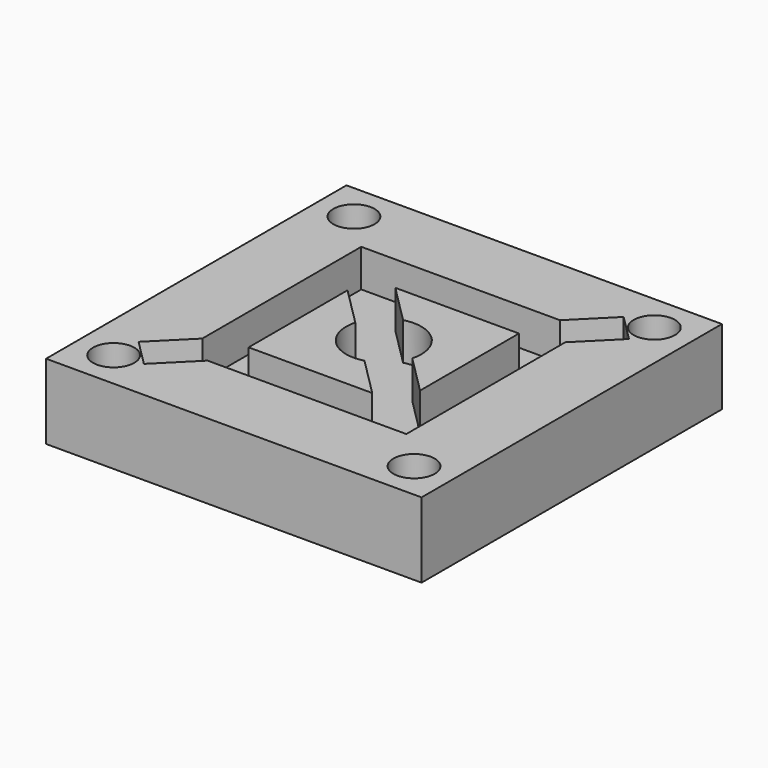
from build123d import *

# Parameters (mm, degrees)
F0_W     = 10
F0_H     = 10
F0_R     = 0.55
F1_DEPTH = 2
F2_DEPTH = 1


with BuildPart() as f1:
    # F0 (on Top) → F1 (new body)
    with BuildSketch(Plane.XY):
        with Locations((0.029937, -0.029937)):
            Rectangle(F0_W, F0_H)
        with Locations((-3.970063, -4.029937)):
            Circle(F0_R, mode=Mode.SUBTRACT)
        with Locations((4.029937, -4.029937)):
            Circle(F0_R, mode=Mode.SUBTRACT)
        Polygon((-3.23526, -3.942129), (-3.573503, -3.603887), (-3.942367, -3.235023), (-3, -2.292656), (-3, 3), (2.292656, 3), (3.235023, 3.942367), (3.603887, 3.573503), (3.942129, 3.23526), (3, 2.293131), (3, -3), (-2.293131, -3), align=None, mode=Mode.SUBTRACT)
        with Locations((-3.970063, 3.970063)):
            Circle(F0_R, mode=Mode.SUBTRACT)
        with Locations((4.029937, 3.970063)):
            Circle(F0_R, mode=Mode.SUBTRACT)
        Polygon((-3.942367, -3.235023), (-3.573503, -3.603887), (-3.23526, -3.942129), (-2.293131, -3), (3, -3), (3, 2.293131), (3.942129, 3.23526), (3.603887, 3.573503), (3.235023, 3.942367), (2.292656, 3), (-3, 3), (-3, -2.292656), align=None)
        with BuildLine():
            Line((0.258819, -0.965926), (1.292893, -2))
            Line((1.292893, -2), (-2, -2))
            Line((-2, -2), (-2, 1.292893))
            Line((-2, 1.292893), (-0.965926, 0.258819))
            ThreePointArc((-0.965926, 0.258819), (-0.707107, -0.707107), (0.258819, -0.965926))
        make_face(mode=Mode.SUBTRACT)
        with BuildLine():
            Line((-1.292893, 2), (2, 2))
            Line((2, 2), (2, -1.292893))
            Line((2, -1.292893), (0.965926, -0.258819))
            ThreePointArc((0.965926, -0.258819), (0.707107, 0.707107), (-0.258819, 0.965926))
            Line((-0.258819, 0.965926), (-1.292893, 2))
        make_face(mode=Mode.SUBTRACT)
        with BuildLine():
            Line((-2, -2), (1.292893, -2))
            Line((1.292893, -2), (0.258819, -0.965926))
            ThreePointArc((0.258819, -0.965926), (-0.707107, -0.707107), (-0.965926, 0.258819))
            Line((-0.965926, 0.258819), (-2, 1.292893))
            Line((-2, 1.292893), (-2, -2))
        make_face()
        with BuildLine():
            Line((2, -1.292893), (2, 2))
            Line((2, 2), (-1.292893, 2))
            Line((-1.292893, 2), (-0.258819, 0.965926))
            ThreePointArc((-0.258819, 0.965926), (0.707107, 0.707107), (0.965926, -0.258819))
            Line((0.965926, -0.258819), (2, -1.292893))
        make_face()
    extrude(amount=-F1_DEPTH)

    # F0 (on Top) → F2 (cut)
    with BuildSketch(Plane.XY):
        Polygon((-3.942367, -3.235023), (-3.573503, -3.603887), (-3.23526, -3.942129), (-2.293131, -3), (3, -3), (3, 2.293131), (3.942129, 3.23526), (3.603887, 3.573503), (3.235023, 3.942367), (2.292656, 3), (-3, 3), (-3, -2.292656), align=None)
        with BuildLine():
            Line((0.258819, -0.965926), (1.292893, -2))
            Line((1.292893, -2), (-2, -2))
            Line((-2, -2), (-2, 1.292893))
            Line((-2, 1.292893), (-0.965926, 0.258819))
            ThreePointArc((-0.965926, 0.258819), (-0.707107, -0.707107), (0.258819, -0.965926))
        make_face(mode=Mode.SUBTRACT)
        with BuildLine():
            Line((-1.292893, 2), (2, 2))
            Line((2, 2), (2, -1.292893))
            Line((2, -1.292893), (0.965926, -0.258819))
            ThreePointArc((0.965926, -0.258819), (0.707107, 0.707107), (-0.258819, 0.965926))
            Line((-0.258819, 0.965926), (-1.292893, 2))
        make_face(mode=Mode.SUBTRACT)
    extrude(amount=-F2_DEPTH, mode=Mode.SUBTRACT)


solid = f1.part
